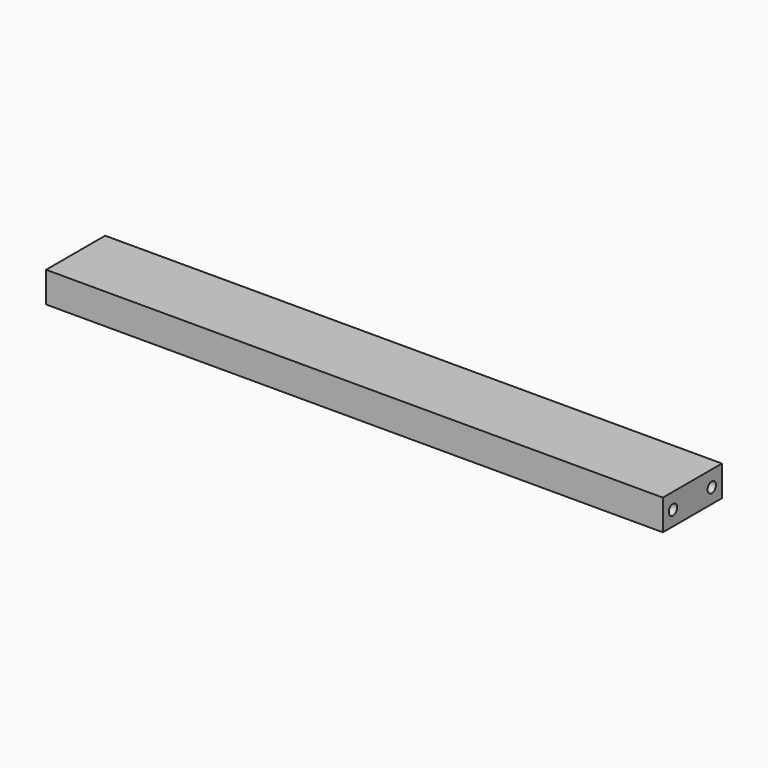
from build123d import *

# Parameters (mm, degrees)
F0_W           = 371.3734
F0_H           = 18.415
F1_DEPTH       = 44.45
F5_D           = 6.35
F5_DEPTH       = 12.7
F5_TIP         = 1.9077324654
F5_ON_F3_D     = 6.35
F5_ON_F3_DEPTH = 12.7
F5_ON_F3_TIP   = 1.9077324654
F5_ON_F2_D     = 6.35
F5_ON_F2_DEPTH = 12.7
F5_ON_F2_TIP   = 1.9077324654


with BuildPart() as f1:
    # F0 (on Front) → F1 (new body)
    with BuildSketch(Plane.XZ):
        with Locations((73.7288090025, -9.8947464747)):
            Rectangle(F0_W, F0_H)
    extrude(amount=F1_DEPTH)

    # F5
    with Locations(Plane(origin=(-111.9578909975, 0, 0), x_dir=(0, -1, 0), z_dir=(-1, 0, 0))):
        with Locations((7.62, -10.2122464747), (36.83, -10.2122464747)):
            Hole(F5_D / 2, depth=F5_DEPTH)
            with Locations((0, 0, -(F5_DEPTH + F5_TIP / 2))):  # 118° drill point
                Cone(0, F5_D / 2, F5_TIP, mode=Mode.SUBTRACT)

    # F5 on F3
    with Locations(Plane.YZ.offset(259.4155090025)):
        with Locations((-36.83, -10.2122464747)):
            Hole(F5_ON_F3_D / 2, depth=F5_ON_F3_DEPTH)
            with Locations((0, 0, -(F5_ON_F3_DEPTH + F5_ON_F3_TIP / 2))):  # 118° drill point
                Cone(0, F5_ON_F3_D / 2, F5_ON_F3_TIP, mode=Mode.SUBTRACT)

    # F5 on F2
    with Locations(Plane.YZ.offset(259.4155090025)):
        with Locations((-7.62, -10.2122464747)):
            Hole(F5_ON_F2_D / 2, depth=F5_ON_F2_DEPTH)
            with Locations((0, 0, -(F5_ON_F2_DEPTH + F5_ON_F2_TIP / 2))):  # 118° drill point
                Cone(0, F5_ON_F2_D / 2, F5_ON_F2_TIP, mode=Mode.SUBTRACT)


solid = f1.part
